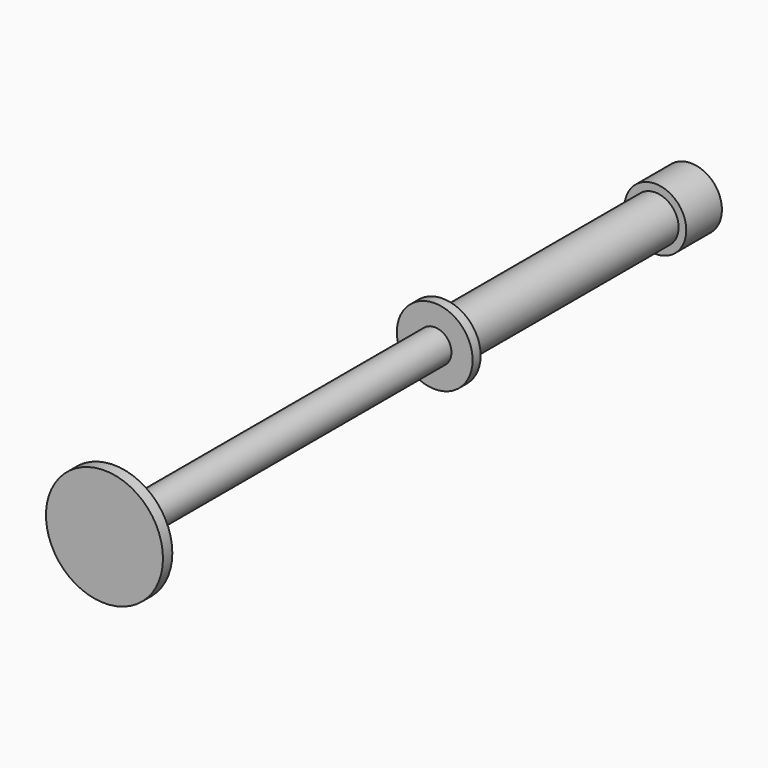
from build123d import *

# Parameters (mm, degrees)
F0_R     = 5.55
F1_DEPTH = 8
F2_R     = 4.175
F3_DEPTH = 55.7
F4_R     = 6.8
F5_DEPTH = 1.8
F6_R     = 3
F7_DEPTH = 72
F8_R     = 10.5
F9_DEPTH = 2.1


with BuildPart() as f1:
    # F0 (on Front) → F1 (new body)
    with BuildSketch(Plane.XZ):
        Circle(F0_R)
    extrude(amount=F1_DEPTH)

    # F2 (on Front) → F3 (join)
    with BuildSketch(Plane.XZ):
        Circle(F2_R)
    extrude(amount=F3_DEPTH)

    # F4 (on face) → F5 (join)
    with BuildSketch(Plane.XZ.offset(55.7)):
        Circle(F4_R)
    extrude(amount=F5_DEPTH)

    # F6 (on face) → F7 (join)
    with BuildSketch(Plane.XZ.offset(57.5)):
        Circle(F6_R)
    extrude(amount=F7_DEPTH)

    # F8 (on face) → F9 (join)
    with BuildSketch(Plane.XZ.offset(129.5)):
        Circle(F8_R)
    extrude(amount=F9_DEPTH)


solid = f1.part
